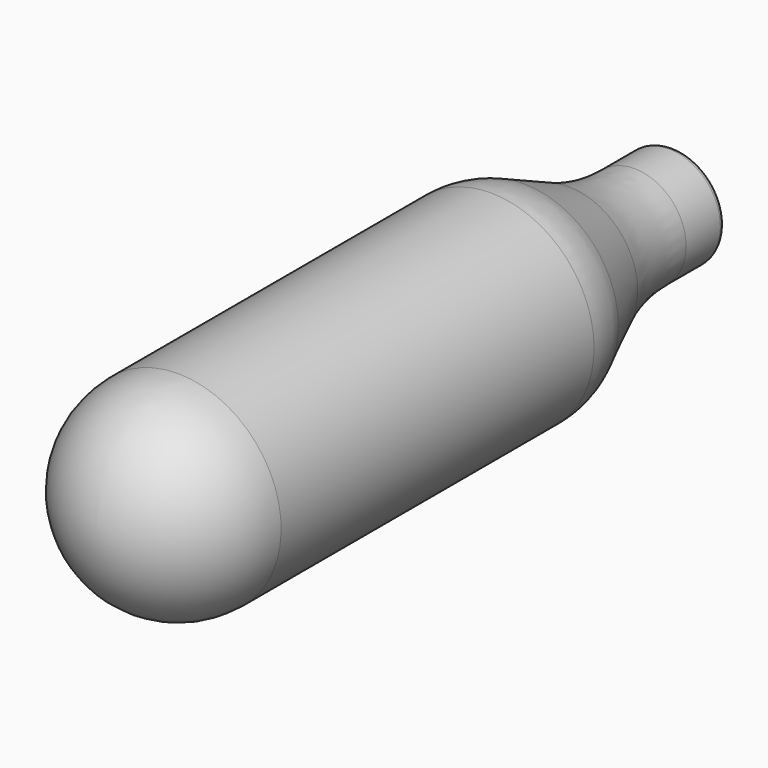
from build123d import *

# Parameters (mm, degrees)
F2_R = 9
F3_R = 8.781681
F4_R = 17.563363
F5_R = 0.5


with BuildPart() as f1:
    # F0 (on Right) → F1 (revolve)
    with BuildSketch(Plane.YZ):
        Polygon((-63, 0), (0, 0), (0, 4.5), (-8, 4.5), (-18, 9), (-63, 9), align=None)
    revolve(axis=Axis((0, -31.5, 0), (0, 1, 0)))

    # F2
    f2_edges = [f1.edges().sort_by_distance(p)[0] for p in [
        (0, -63, -9),
    ]]
    fillet(f2_edges, radius=F2_R)

    # F3
    f3_edges = [f1.edges().sort_by_distance(p)[0] for p in [
        (0, -18, -9),
    ]]
    fillet(f3_edges, radius=F3_R)

    # F4
    f4_edges = [f1.edges().sort_by_distance(p)[0] for p in [
        (0, -12.140581, 6.363261),
        (0, -16.281162, -8.226521),
        (0, -8, -4.5),
    ]]
    fillet(f4_edges, radius=F4_R)

    # F5
    f5_edges = [f1.edges().sort_by_distance(p)[0] for p in [
        (0, 0, -4.5),
    ]]
    fillet(f5_edges, radius=F5_R)


solid = f1.part
